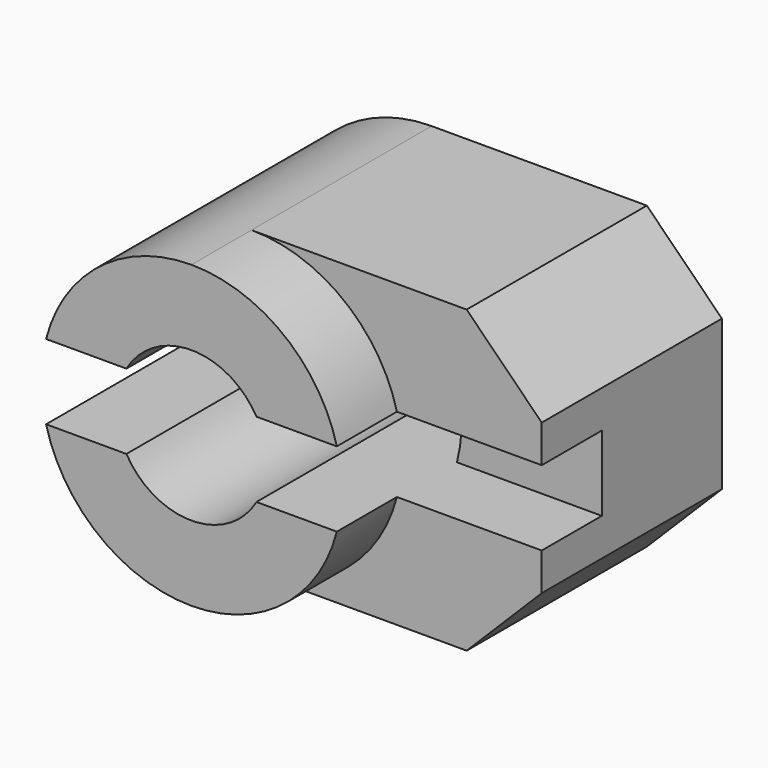
from build123d import *

# Parameters (mm, degrees)
F1_DEPTH = 20
F2_DEPTH = 15
F3_DEPTH = 10
F4_DEPTH = 25


with BuildPart() as f1:
    # F0 (on Front) → F1 (new body)
    with BuildSketch(Plane.XZ):
        with BuildLine():
            ThreePointArc((-4.330127, 2.5), (0, 5), (4.330127, 2.5))
            Line((4.330127, 2.5), (9.682458, 2.5))
            ThreePointArc((9.682458, 2.5), (6.123724, 7.905694), (0, 10))
            ThreePointArc((0, 10), (-6.123724, 7.905694), (-9.682458, 2.5))
            Line((-9.682458, 2.5), (-4.330127, 2.5))
        make_face()
        with BuildLine():
            Line((9.682458, -2.5), (4.330127, -2.5))
            ThreePointArc((4.330127, -2.5), (0, -5), (-4.330127, -2.5))
            Line((-4.330127, -2.5), (-9.682458, -2.5))
            ThreePointArc((-9.682458, -2.5), (-6.123724, -7.905694), (0, -10))
            ThreePointArc((0, -10), (6.123724, -7.905694), (9.682458, -2.5))
        make_face()
        with BuildLine():
            ThreePointArc((-5, 0), (-4.829629, 1.294095), (-4.330127, 2.5))
            Line((-4.330127, 2.5), (-9.682458, 2.5))
            ThreePointArc((-9.682458, 2.5), (-9.920297, 1.260043), (-10, 0))
            ThreePointArc((-10, 0), (-9.920297, -1.260043), (-9.682458, -2.5))
            Line((-9.682458, -2.5), (-4.330127, -2.5))
            ThreePointArc((-4.330127, -2.5), (-4.829629, -1.294095), (-5, 0))
        make_face()
    extrude(amount=F1_DEPTH)

    # F0 (on Front) → F2 (join)
    with BuildSketch(Plane.XZ):
        with BuildLine():
            ThreePointArc((0, 10), (6.123724, 7.905694), (9.682458, 2.5))
            Line((9.682458, 2.5), (19.330127, 2.5))
            Line((19.330127, 2.5), (19.330127, 5))
            Line((19.330127, 5), (14.330127, 10))
            Line((14.330127, 10), (0, 10))
        make_face()
        with BuildLine():
            Line((19.330127, -2.5), (9.682458, -2.5))
            ThreePointArc((9.682458, -2.5), (6.123724, -7.905694), (0, -10))
            Line((0, -10), (14.330127, -10))
            Line((14.330127, -10), (19.330127, -5))
            Line((19.330127, -5), (19.330127, -2.5))
        make_face()
    extrude(amount=F2_DEPTH)

    # F0 (on Front) → F3 (join)
    with BuildSketch(Plane.XZ):
        with BuildLine():
            Line((19.330127, 2.5), (9.682458, 2.5))
            ThreePointArc((9.682458, 2.5), (10, 0), (9.682458, -2.5))
            Line((9.682458, -2.5), (19.330127, -2.5))
            Line((19.330127, -2.5), (19.330127, 0))
            Line((19.330127, 0), (19.330127, 2.5))
        make_face()
    extrude(amount=F3_DEPTH)

    # F0 (on Front) → F4 (cut)
    with BuildSketch(Plane.XZ):
        with BuildLine():
            ThreePointArc((-5, 0), (-4.829629, 1.294095), (-4.330127, 2.5))
            Line((-4.330127, 2.5), (-9.682458, 2.5))
            ThreePointArc((-9.682458, 2.5), (-9.920297, 1.260043), (-10, 0))
            ThreePointArc((-10, 0), (-9.920297, -1.260043), (-9.682458, -2.5))
            Line((-9.682458, -2.5), (-4.330127, -2.5))
            ThreePointArc((-4.330127, -2.5), (-4.829629, -1.294095), (-5, 0))
        make_face()
    extrude(amount=F4_DEPTH, mode=Mode.SUBTRACT)


solid = f1.part
